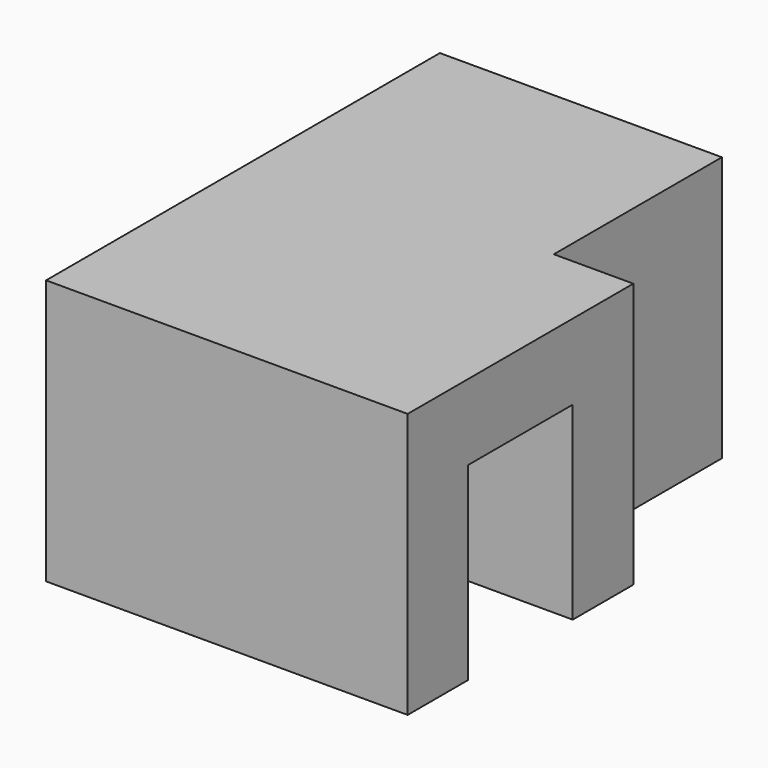
from build123d import *

# Parameters (mm, degrees)
F1_DEPTH = 10
F3_DEPTH = 4


with BuildPart() as f1:
    # F0 (on Top) → F1 (new body)
    with BuildSketch(Plane.XY):
        Polygon((-54.903738, 11.130013), (-54.903738, 33.130013), (-58.903738, 33.130013), (-58.903738, 7.130013), (-39.803738, 7.130013), (-39.803738, 11.130013), align=None)
        Polygon((-44.003738, 33.130013), (-48.003738, 33.130013), (-48.003738, 18.030013), (-39.803738, 18.030013), (-39.803738, 22.030013), (-44.003738, 22.030013), align=None)
    extrude(amount=F1_DEPTH)

    # F2 (on face) → F3 (join)
    with BuildSketch(Plane.XY.offset(10)):
        Polygon((-58.903738, 7.130013), (-39.803738, 7.130013), (-39.803738, 22.030013), (-44.003738, 22.030013), (-44.003738, 33.130013), (-58.903738, 33.130013), align=None)
    extrude(amount=F3_DEPTH)


solid = f1.part
